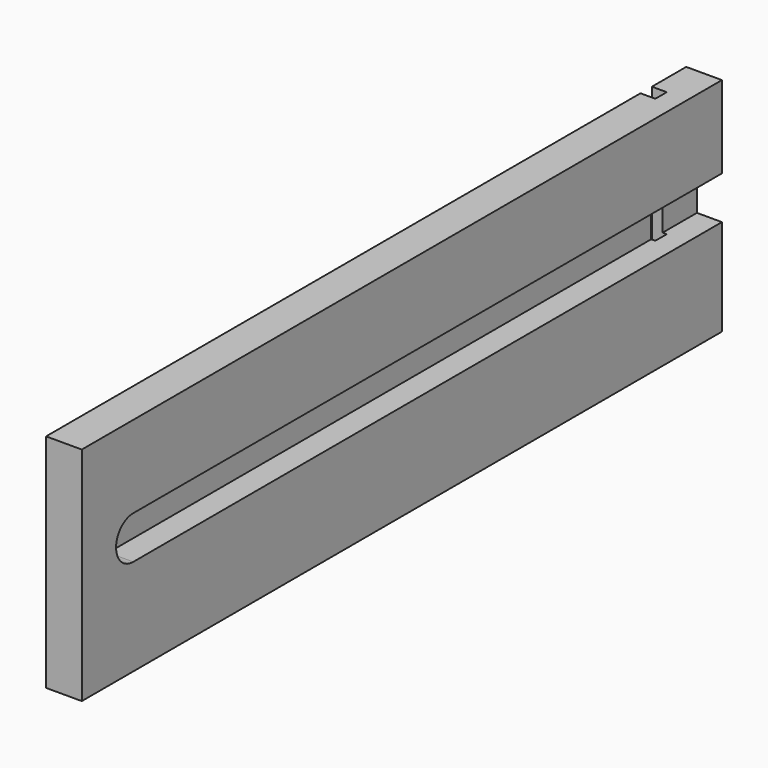
from build123d import *

# Parameters (mm, degrees)
F0_W     = 355.6
F0_H     = 98.425
F1_DEPTH = 15.875
F3_DEPTH = 11.1125
F4_W     = 342.9
F4_H     = 6.35
F5_DEPTH = 6.35
F6_W     = 6.604
F6_H     = 6.35
F7_DEPTH = 98.425


with BuildPart() as f1:
    # F0 (on Right) → F1 (new body)
    with BuildSketch(Plane.YZ):
        with Locations((177.8, 49.2125)):
            Rectangle(F0_W, F0_H)
    extrude(amount=F1_DEPTH)

    # F2 (on face) → F3 (cut)
    with BuildSketch(Plane.YZ.offset(15.875)):
        with BuildLine():
            ThreePointArc((28.575, 61.9125), (19.05, 52.3875), (28.575, 42.8625))
            Line((28.575, 42.8625), (355.6, 42.8625))
            Line((355.6, 42.8625), (355.6, 52.3875))
            Line((355.6, 52.3875), (355.6, 61.9125))
            Line((355.6, 61.9125), (28.575, 61.9125))
        make_face()
    extrude(amount=-F3_DEPTH, mode=Mode.SUBTRACT)

    # F4 (on face) → F5 (cut)
    with BuildSketch(Plane(origin=(0, 0, 0), x_dir=(0, -1, 0), z_dir=(-1, 0, 0))):
        with Locations((-184.15, 9.525)):
            Rectangle(F4_W, F4_H)
    extrude(amount=-F5_DEPTH, mode=Mode.SUBTRACT)

    # F6 (on face) → F7 (cut, through all)
    with BuildSketch(Plane.XY.offset(98.425)):
        with Locations((3.302, 333.375)):
            Rectangle(F6_W, F6_H)
    extrude(amount=-F7_DEPTH, mode=Mode.SUBTRACT)


solid = f1.part
